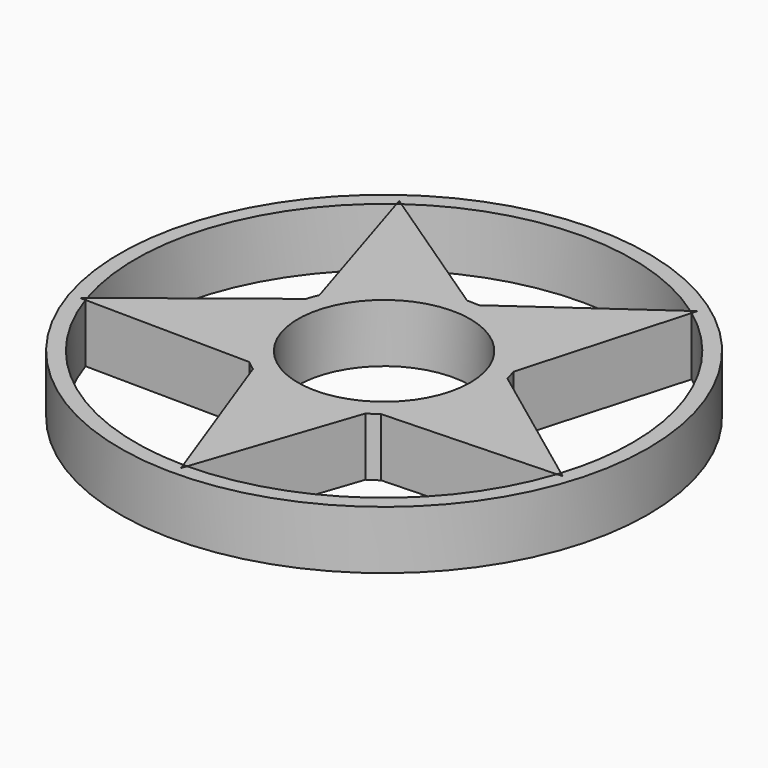
from build123d import *

# Parameters (mm, degrees)
F0_R     = 11.2522
F1_DEPTH = 7.62
F0_R_2   = 34.4842316456


with BuildPart() as f1:
    # F0 (on Top) → F1 (new body)
    with BuildSketch(Plane.XY):
        with BuildLine():
            ThreePointArc((-12.8421339688, 5.4991358527), (-7.8305382248, 11.5690782308), (-0.3328787362, 13.9660335009))
            Line((-0.3328787362, 13.9660335009), (-18.8749439971, 26.4165889708))
            ThreePointArc((-18.8749439971, 26.4165889708), (-19.0755199185, 26.2721187494), (-19.2749901009, 26.1261256284))
            Line((-19.2749901009, 26.1261256284), (-12.8421339688, 5.4991358527))
        make_face()
        with BuildLine():
            ThreePointArc((1.2615513463, 13.9129216271), (8.5830778523, 11.0223261874), (13.1796219812, 4.632328187))
            Line((13.1796219812, 4.632328187), (19.2909906159, 26.1143134085))
            ThreePointArc((19.2909906159, 26.1143134085), (19.0916099022, 26.260428692), (18.8911225169, 26.4050217534))
            Line((18.8911225169, 26.4050217534), (1.2615513463, 13.9129216271))
        make_face()
        with BuildLine():
            ThreePointArc((13.6218155794, 3.0995225957), (13.8826810027, 1.5595089541), (13.97, 0))
            ThreePointArc((13.97, 0), (12.5220448234, -6.1934879866), (8.4783330795, -11.1030972343))
            Line((8.4783330795, -11.1030972343), (30.7974318744, -10.2770556914))
            ThreePointArc((30.7974318744, -10.2770556914), (30.874783738, -10.0422812586), (30.950345902, -9.8069247112))
            Line((30.950345902, -9.8069247112), (13.6218155794, 3.0995225957))
        make_face()
        with BuildLine():
            Line((0.2372432141, -32.46603455), (7.1571936703, -11.997311314))
            ThreePointArc((7.1571936703, -11.997311314), (-0.4650950677, -13.962255784), (-7.9397239702, -11.4944196581))
            Line((-7.9397239702, -11.4944196581), (-0.2571309513, -32.4658831301))
            ThreePointArc((-0.2571309513, -32.4658831301), (-0.0099441568, -32.4668998344), (0.2372432141, -32.46603455))
        make_face()
        with BuildLine():
            Line((-30.8037215321, -10.2581881207), (-9.1984266271, -10.5142687613))
            ThreePointArc((-9.1984266271, -10.5142687613), (-13.4226166255, -3.8722426223), (-13.3853523543, 3.9991552046))
            Line((-13.3853523543, 3.9991552046), (-30.9563475419, -9.7879635578))
            ThreePointArc((-30.9563475419, -9.7879635578), (-30.8809295649, -10.0233663484), (-30.8037215321, -10.2581881207))
        make_face()
        with BuildLine():
            ThreePointArc((8.4783330795, -11.1030972343), (12.5220448234, -6.1934879866), (13.97, 0))
            ThreePointArc((13.97, 0), (13.8826810027, 1.5595089541), (13.6218155794, 3.0995225957))
            ThreePointArc((13.6218155794, 3.0995225957), (13.4226166255, 3.8722426223), (13.1796219812, 4.632328187))
            ThreePointArc((13.1796219812, 4.632328187), (8.5830778523, 11.0223261874), (1.2615513463, 13.9129216271))
            ThreePointArc((1.2615513463, 13.9129216271), (0.4650950677, 13.962255784), (-0.3328787362, 13.9660335009))
            ThreePointArc((-0.3328787362, 13.9660335009), (-7.8305382248, 11.5690782308), (-12.8421339688, 5.4991358527))
            ThreePointArc((-12.8421339688, 5.4991358527), (-13.1351720656, 4.7569060119), (-13.3853523543, 3.9991552046))
            ThreePointArc((-13.3853523543, 3.9991552046), (-13.4226166255, -3.8722426223), (-9.1984266271, -10.5142687613))
            ThreePointArc((-9.1984266271, -10.5142687613), (-8.5830778523, -11.0223261874), (-7.9397239702, -11.4944196581))
            ThreePointArc((-7.9397239702, -11.4944196581), (-0.4650950677, -13.962255784), (7.1571936703, -11.997311314))
            ThreePointArc((7.1571936703, -11.997311314), (7.8305382248, -11.5690782308), (8.4783330795, -11.1030972343))
        make_face()
        Circle(F0_R, mode=Mode.SUBTRACT)
    extrude(amount=F1_DEPTH)


with BuildPart() as f1b:
    # F0 (on Top) → F1, piece 2 (new body)
    with BuildSketch(Plane.XY):
        Circle(F0_R_2)
        with BuildLine():
            ThreePointArc((32.4669013573, 0), (32.0855225228, -4.9617464853), (30.950345902, -9.8069247112))
            Line((30.950345902, -9.8069247112), (31.5444363158, -10.2494086656))
            Line((31.5444363158, -10.2494086656), (30.7974318744, -10.2770556914))
            ThreePointArc((30.7974318744, -10.2770556914), (19.0755199185, -26.2721187494), (0.2372432141, -32.46603455))
            Line((0.2372432141, -32.46603455), (0, -33.1677831709))
            Line((0, -33.1677831709), (-0.2571309513, -32.4658831301))
            ThreePointArc((-0.2571309513, -32.4658831301), (-19.0916099022, -26.260428692), (-30.8037215321, -10.2581881207))
            Line((-30.8037215321, -10.2581881207), (-31.5444363158, -10.2494086656))
            Line((-31.5444363158, -10.2494086656), (-30.9563475419, -9.7879635578))
            ThreePointArc((-30.9563475419, -9.7879635578), (-30.874783738, 10.0422812586), (-19.2749901009, 26.1261256284))
            Line((-19.2749901009, 26.1261256284), (-19.4955337991, 26.833300251))
            Line((-19.4955337991, 26.833300251), (-18.8749439971, 26.4165889708))
            ThreePointArc((-18.8749439971, 26.4165889708), (0.0099441568, 32.4668998344), (18.8911225169, 26.4050217534))
            Line((18.8911225169, 26.4050217534), (19.4955337991, 26.833300251))
            Line((19.4955337991, 26.833300251), (19.2909906159, 26.1143134085))
            ThreePointArc((19.2909906159, 26.1143134085), (28.9863620791, 14.6249956296), (32.4669013573, 0))
        make_face(mode=Mode.SUBTRACT)
    extrude(amount=F1_DEPTH)


solid = Compound([f1.part, f1b.part])
